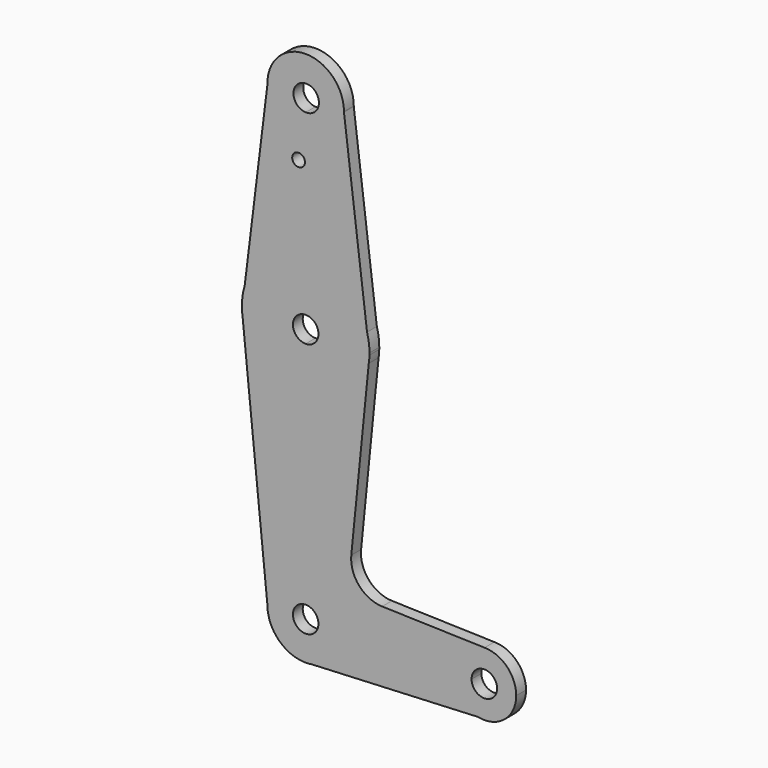
from build123d import *

# Parameters (mm, degrees)
F0_R     = 1.5875
F1_DEPTH = 3.048


with BuildPart() as f1:
    # F0 (on Front) → F1 (new body)
    with BuildSketch(Plane.XZ):
        with BuildLine():
            ThreePointArc((-17.0167897103, 66.9723249829), (-17.0160456177, 67.0410601028), (-17.0157975825, 67.1097988026))
            ThreePointArc((-17.0157975825, 67.1097988026), (-26.6720238091, 76.6338948058), (-36.0621817667, 66.8473712581))
            ThreePointArc((-36.0621817667, 66.8473712581), (-33.1825471309, 60.2824429501), (-26.54076308, 57.5847988027))
            ThreePointArc((-26.54076308, 57.5847988027), (-19.8543741937, 60.3261886085), (-17.0167897103, 66.9723249829))
        make_face()
        with BuildLine():
            ThreePointArc((-23.2395362328, 67.0027438938), (-24.2145608998, 64.7134790481), (-26.540785703, 63.8302549543))
            ThreePointArc((-26.540785703, 63.8302549543), (-28.6145115659, 69.2920087395), (-23.2395362328, 67.0027438938))
        make_face(mode=Mode.SUBTRACT)
        with BuildLine():
            ThreePointArc((-26.54076308, 57.5847988027), (-33.1825471309, 60.2824429501), (-36.0621817667, 66.8473712581))
            Line((-36.0621817667, 66.8473712581), (-41.7134060159, 20.9790593837))
            ThreePointArc((-41.7134060159, 20.9790593837), (-35.9717318958, 29.0796708501), (-26.5406710735, 32.1847988022))
            Line((-26.5406710735, 32.1847988022), (-26.54076308, 57.5847988027))
        make_face()
        with Locations((-28.3083671368, 52.8349988023)):
            Circle(F0_R, mode=Mode.SUBTRACT)
        with BuildLine():
            Line((-11.2732995188, 20.6600570336), (-17.0167897103, 66.9723249829))
            ThreePointArc((-17.0167897103, 66.9723249829), (-19.8543741937, 60.3261886085), (-26.54076308, 57.5847988027))
            Line((-26.54076308, 57.5847988027), (-26.5406710735, 32.1847988022))
            ThreePointArc((-26.5406710735, 32.1847988022), (-16.9762422455, 28.9801747311), (-11.2732995188, 20.6600570336))
        make_face()
        with BuildLine():
            Line((-42.3930131782, 15.4630097818), (-41.7134060159, 20.9790593837))
            ThreePointArc((-41.7134060159, 20.9790593837), (-42.2964802964, 18.2510068494), (-42.3930131782, 15.4630097818))
        make_face()
        with BuildLine():
            ThreePointArc((-26.5406710735, 32.1847988022), (-35.9717318958, 29.0796708501), (-41.7134060159, 20.9790593837))
            Line((-41.7134060159, 20.9790593837), (-42.3930131782, 15.4630097818))
            ThreePointArc((-42.3930131782, 15.4630097818), (-42.3343124097, 14.7052110222), (-42.2394071611, 13.9510905186))
            ThreePointArc((-42.2394071611, 13.9510905186), (-36.8985061612, 4.2794336351), (-26.5406611457, 0.4347988024))
            Line((-26.5406611457, 0.4347988024), (-26.5406230847, 13.1347988024))
            ThreePointArc((-26.5406230847, 13.1347988024), (-29.7156135695, 16.3097978096), (-26.5406250703, 19.4847988023))
            Line((-26.5406250703, 19.4847988023), (-26.5406710735, 32.1847988022))
        make_face()
        with BuildLine():
            Line((-10.6731476068, 15.8207702525), (-11.2732995188, 20.6600570336))
            ThreePointArc((-11.2732995188, 20.6600570336), (-16.9762422455, 28.9801747311), (-26.5406710735, 32.1847988022))
            Line((-26.5406710735, 32.1847988022), (-26.5406250703, 19.4847988023))
            ThreePointArc((-26.5406250703, 19.4847988023), (-24.2955536053, 18.5548668988), (-23.3656135695, 16.3097988023))
            ThreePointArc((-23.3656135695, 16.3097988023), (-24.2955529033, 14.0647314079), (-26.5406230847, 13.1347988024))
            Line((-26.5406230847, 13.1347988024), (-26.5406611457, 0.4347988024))
            ThreePointArc((-26.5406611457, 0.4347988024), (-16.1827570319, 4.2794025933), (-10.8418199778, 13.9510905186))
            ThreePointArc((-10.8418199778, 13.9510905186), (-10.7298225981, 14.8834349425), (-10.6731476068, 15.8207702525))
        make_face()
        with BuildLine():
            ThreePointArc((-10.6656135695, 16.3097988023), (-10.8182690313, 18.5060472453), (-11.2732995188, 20.6600570336))
            Line((-11.2732995188, 20.6600570336), (-10.6731476068, 15.8207702525))
            ThreePointArc((-10.6731476068, 15.8207702525), (-10.6674971905, 16.0652555115), (-10.6656135695, 16.3097988023))
        make_face()
        with BuildLine():
            ThreePointArc((-26.5406611457, 0.4347988024), (-36.8985061612, 4.2794336351), (-42.2394071611, 13.9510905186))
            Line((-42.2394071611, 13.9510905186), (-36.0658038743, -47.1902011974))
            ThreePointArc((-36.0658038743, -47.1902011974), (-33.2759858727, -40.4549990141), (-26.5407753286, -37.6652011974))
            Line((-26.5407753286, -37.6652011974), (-26.5406611457, 0.4347988024))
        make_face()
        with BuildLine():
            Line((-15.1930989296, -29.4753343649), (-10.8418199778, 13.9510905186))
            ThreePointArc((-10.8418199778, 13.9510905186), (-16.1827570319, 4.2794025933), (-26.5406611457, 0.4347988024))
            Line((-26.5406611457, 0.4347988024), (-26.5407753286, -37.6652011974))
            ThreePointArc((-26.5407753286, -37.6652011974), (-19.8281146384, -40.4325811857), (-17.0160160096, -47.1266312933))
            Line((-17.0160160096, -47.1266312933), (9.9708829403, -46.9465165651))
            ThreePointArc((9.9708829403, -46.9465165651), (12.2982518284, -41.2781771299), (17.9688320387, -38.9562731758))
            Line((17.9688320387, -38.9562731758), (-7.5137404248, -38.2148031064))
            ThreePointArc((-7.5137404248, -38.2148031064), (-13.2546858806, -35.5157085904), (-15.1930989296, -29.4753343649))
        make_face()
        with BuildLine():
            ThreePointArc((-26.5407753286, -37.6652011974), (-33.2759858727, -40.4549990141), (-36.0658038743, -47.1902011974))
            ThreePointArc((-36.0658038743, -47.1902011974), (-33.5069451377, -53.6862385201), (-27.2052262579, -56.6919993375))
            Line((-27.2052262579, -56.6919993375), (-24.9939606288, -56.5887596493))
            ThreePointArc((-24.9939606288, -56.5887596493), (-19.2792852001, -53.3542884407), (-17.0158038743, -47.1902011974))
            ThreePointArc((-17.0158038743, -47.1902011974), (-17.0158569083, -47.1584160684), (-17.0160160096, -47.1266312933))
            Line((-17.0160160096, -47.1266312933), (-23.3658745861, -47.1690112293))
            ThreePointArc((-23.3658745861, -47.1690112293), (-23.3658215523, -47.1796061544), (-23.3658038743, -47.1902011974))
            ThreePointArc((-23.3658038743, -47.1902011974), (-28.7858712687, -49.4352618635), (-26.5407943591, -44.0152011974))
            Line((-26.5407943591, -44.0152011974), (-26.5407753286, -37.6652011974))
        make_face()
        with BuildLine():
            Line((-24.9939606288, -56.5887596493), (-27.2052262579, -56.6919993375))
            ThreePointArc((-27.2052262579, -56.6919993375), (-26.0965840496, -56.7048369627), (-24.9939606288, -56.5887596493))
        make_face()
        with BuildLine():
            Line((9.9708829403, -46.9465165651), (-17.0160160096, -47.1266312933))
            ThreePointArc((-17.0160160096, -47.1266312933), (-17.0158569083, -47.1584160684), (-17.0158038743, -47.1902011974))
            ThreePointArc((-17.0158038743, -47.1902011974), (-19.2792852001, -53.3542884407), (-24.9939606288, -56.5887596493))
            Line((-24.9939606288, -56.5887596493), (16.278078732, -54.6618484628))
            ThreePointArc((16.278078732, -54.6618484628), (11.762832734, -51.9173143005), (9.9708829403, -46.9465165651))
        make_face()
        with BuildLine():
            ThreePointArc((25.8457061609, -46.893541645), (23.5422599481, -41.3023571397), (17.9688320387, -38.9562731758))
            ThreePointArc((17.9688320387, -38.9562731758), (12.2982518284, -41.2781771299), (9.9708829403, -46.9465165651))
            ThreePointArc((9.9708829403, -46.9465165651), (11.762832734, -51.9173143005), (16.278078732, -54.6618484628))
            Line((16.278078732, -54.6618484628), (20.2550389643, -54.4761719303))
            ThreePointArc((20.2550389643, -54.4761719303), (24.296942015, -51.60395144), (25.8457061609, -46.893541645))
        make_face()
        with BuildLine():
            ThreePointArc((21.0832061609, -46.893541645), (17.9188012039, -50.068523967), (14.7332768727, -46.914731613))
            ThreePointArc((14.7332768727, -46.914731613), (17.8976111179, -43.718559323), (21.0832061609, -46.893541645))
        make_face(mode=Mode.SUBTRACT)
        with BuildLine():
            Line((20.2550389643, -54.4761719303), (16.278078732, -54.6618484628))
            ThreePointArc((16.278078732, -54.6618484628), (18.2783893482, -54.8224047828), (20.2550389643, -54.4761719303))
        make_face()
        with BuildLine():
            ThreePointArc((-17.0160160096, -47.1266312933), (-19.8281146384, -40.4325811857), (-26.5407753286, -37.6652011974))
            Line((-26.5407753286, -37.6652011974), (-26.5407943591, -44.0152011974))
            ThreePointArc((-26.5407943591, -44.0152011974), (-24.3032407957, -44.9376611935), (-23.3658745861, -47.1690112293))
            Line((-23.3658745861, -47.1690112293), (-17.0160160096, -47.1266312933))
        make_face()
    extrude(amount=F1_DEPTH)


solid = f1.part
